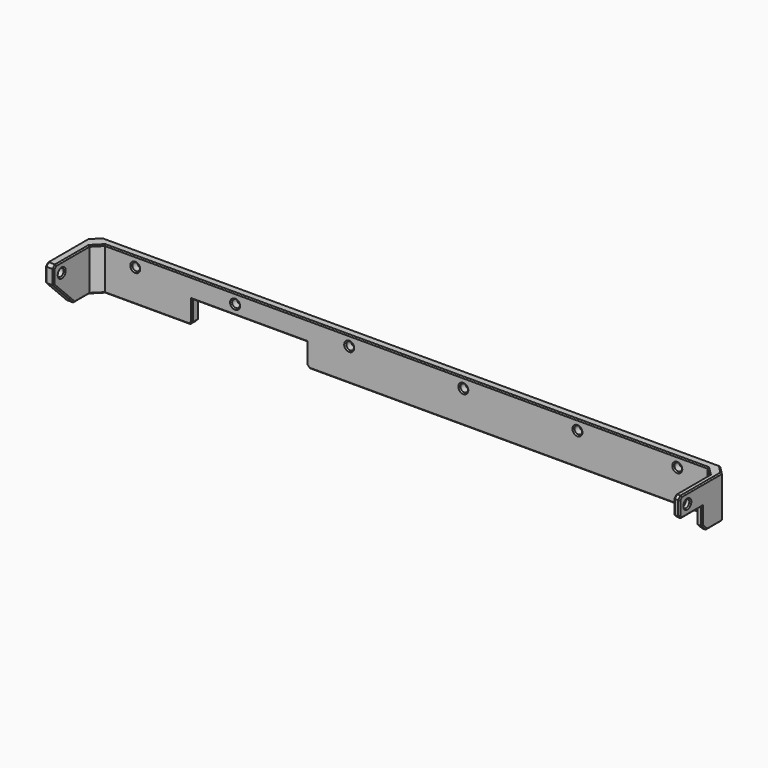
from build123d import *

# Parameters (mm, degrees)
PAD008_DEPTH         = 15
CHAMFER011016_SIZE   = 3
SKETCH047_R          = 1.35
POCKET019_DEPTH      = 111.651
POCKET019_DEPTH_BACK = 110.651
CHAMFER011017_SIZE   = 1
CHAMFER011018_SIZE   = 9
SKETCH048_R          = 1.35
POCKET020_DEPTH      = 21.651
POCKET023_DEPTH      = 5
CHAMFER011022_SIZE   = 2
SKETCH053_W          = 40
SKETCH053_H          = 8
POCKET025_DEPTH      = 21.651
CHAMFER011023_SIZE   = 1
CHAMFER011024_SIZE   = 0.4


with BuildPart() as part:
    # Sketch046 → Pad008 (new body)
    with BuildSketch(Plane.XY):
        Polygon((-108.65, 46.5), (-108.65, 65.15), (108.65, 65.15), (108.65, 46.5), (110.65, 46.5), (110.65, 68.15), (-111.65, 68.15), (-111.65, 46.5), align=None)
    extrude(amount=PAD008_DEPTH)

    # Chamfer011016
    chamfer011016_edges = [part.edges().sort_by_distance(p)[0] for p in [
        (110.65, 68.15, 7.5),
        (108.65, 65.15, 7.5),
        (-111.65, 68.15, 7.5),
        (-108.65, 65.15, 7.5),
    ]]
    chamfer(chamfer011016_edges, length=CHAMFER011016_SIZE)

    # Sketch047 → Pocket019 (cut, two sides)
    with BuildSketch(Plane.YZ) as pocket019_sk:
        with Locations((50, 11.5)):
            Circle(SKETCH047_R)
    extrude(amount=-POCKET019_DEPTH, mode=Mode.SUBTRACT)
    extrude(pocket019_sk.sketch, amount=POCKET019_DEPTH_BACK, mode=Mode.SUBTRACT)

    # Chamfer011017
    chamfer011017_edges = [part.edges().sort_by_distance(p)[0] for p in [
        (109.65, 46.5, 15),
        (-110.15, 46.5, 15),
    ]]
    chamfer(chamfer011017_edges, length=CHAMFER011017_SIZE)

    # Chamfer011018
    chamfer011018_edges = [part.edges().sort_by_distance(p)[0] for p in [
        (109.65, 46.5, 0),
        (-110.15, 46.5, 0),
    ]]
    chamfer(chamfer011018_edges, length=CHAMFER011018_SIZE)

    # Sketch048 (on Face13 of Chamfer011018) → Pocket020 (cut, through all)
    with BuildSketch(Plane(origin=(0, 68.15, 0), x_dir=(-1, 0, 0), z_dir=(0, 1, 0))):
        with Locations((-95, 11.5)):
            Circle(SKETCH048_R)
        with Locations((-60, 11.5)):
            Circle(SKETCH048_R)
        with Locations((-20, 11.5)):
            Circle(SKETCH048_R)
        with Locations((20, 11.5)):
            Circle(SKETCH048_R)
        with Locations((60, 11.5)):
            Circle(SKETCH048_R)
        with Locations((95, 11.5)):
            Circle(SKETCH048_R)
    extrude(amount=-POCKET020_DEPTH, mode=Mode.SUBTRACT)

    # Sketch051 (on Face17 of Pocket020) → Pocket023 (cut)
    with BuildSketch(Plane.YZ.offset(110.65)):
        Polygon((47.5, 8), (56.5, 8), (56.5, 0), (55.5, 0), align=None)
    extrude(amount=-POCKET023_DEPTH, mode=Mode.SUBTRACT)

    # Chamfer011022
    chamfer011022_edges = [part.edges().sort_by_distance(p)[0] for p in [
        (109.65, 56.5, 0),
    ]]
    chamfer(chamfer011022_edges, length=CHAMFER011022_SIZE)

    # Sketch053 (on Face6 of Chamfer011022) → Pocket025 (cut, through all)
    with BuildSketch(Plane(origin=(0, 68.15, 0), x_dir=(-1, 0, 0), z_dir=(0, 1, 0))):
        with Locations((55, 4)):
            Rectangle(SKETCH053_W, SKETCH053_H)
    extrude(amount=-POCKET025_DEPTH, mode=Mode.SUBTRACT)

    # Chamfer011023
    chamfer011023_edges = [part.edges().sort_by_distance(p)[0] for p in [
        (-75, 66.65, 0),
        (-35, 66.65, 0),
    ]]
    chamfer(chamfer011023_edges, length=CHAMFER011023_SIZE)

    # Chamfer011024
    chamfer011024_edges = [part.edges().sort_by_distance(p)[0] for p in [
        (-111.65, 46.5, 11.5),
        (-111.65, 47, 14.5),
        (-111.65, 56.325, 15),
        (-111.65, 48.65, 11.5),
        (-108.65, 48.65, 11.5),
        (-111.65, 51, 4.5),
        (-111.65, 60.325, 0),
        (-110.15, 66.65, 0),
        (-92.325, 68.15, 0),
        (-110.15, 66.65, 15),
        (-0.5, 68.15, 15),
        (-93.65, 68.15, 11.5),
        (-93.65, 65.15, 11.5),
        (-75.5, 68.15, 0.5),
        (-75, 68.15, 4.5),
        (-55, 68.15, 8),
        (-35, 68.15, 4.5),
        (-34.5, 68.15, 0.5),
        (36.825, 68.15, 0),
        (-58.65, 68.15, 11.5),
        (-58.65, 65.15, 11.5),
        (-18.65, 68.15, 11.5),
        (-18.65, 65.15, 11.5),
        (21.35, 68.15, 11.5),
        (21.35, 65.15, 11.5),
        (61.35, 68.15, 11.5),
        (61.35, 65.15, 11.5),
        (96.35, 68.15, 11.5),
        (96.35, 65.15, 11.5),
        (109.15, 66.65, 15),
        (110.65, 56.325, 15),
        (107.15, 63.65, 15),
        (108.65, 54.825, 15),
        (0, 65.15, 15),
        (-107.15, 63.65, 15),
        (-108.65, 54.825, 15),
        (-108.65, 47, 14.5),
        (-108.65, 46.5, 11.5),
        (-108.65, 51, 4.5),
        (-108.65, 58.825, 0),
        (-107.15, 63.65, 0),
        (-90.825, 65.15, 0),
        (-75.5, 65.15, 0.5),
        (-75, 65.15, 4.5),
        (-55, 65.15, 8),
        (-35, 65.15, 4.5),
        (-34.5, 65.15, 0.5),
        (35.825, 65.15, 0),
        (107.15, 63.65, 0),
        (109.15, 66.65, 0),
        (110.65, 61.825, 0),
        (108.65, 60.325, 0),
        (110.65, 57.5, 1),
        (108.65, 57.5, 1),
        (110.65, 56.5, 5),
        (108.65, 56.5, 5),
        (108.65, 52, 8),
        (110.65, 52, 8),
        (110.65, 48.65, 11.5),
        (108.65, 48.65, 11.5),
        (110.65, 47, 8.5),
        (108.65, 47, 8.5),
        (108.65, 46.5, 11.5),
        (110.65, 46.5, 11.5),
        (110.65, 47, 14.5),
        (108.65, 47, 14.5),
    ]]
    chamfer(chamfer011024_edges, length=CHAMFER011024_SIZE)


with BuildPart() as part_1:
    # Body006010 placement: moved
    add(part.part.moved(Location((0, 0, 2))))


solid = part_1.part
